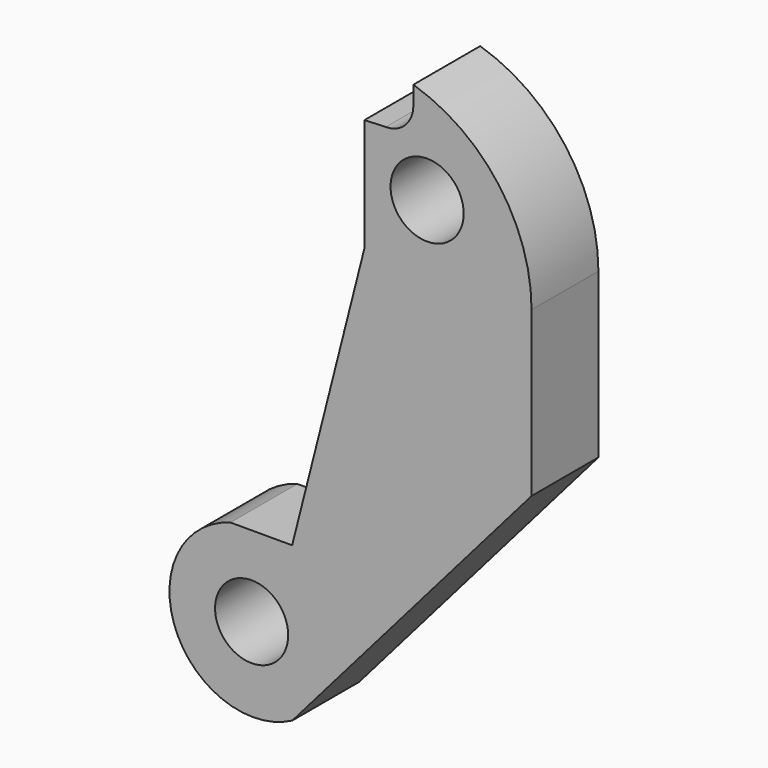
from build123d import *

# Parameters (mm, degrees)
CYLINDER056_R     = 1.75
CYLINDER056_DEPTH = 15
CYLINDER049_R     = 1.75
CYLINDER049_DEPTH = 15
EXTRUDE002_DEPTH  = 4


with BuildPart() as m3holds024:
    # Cylinder056 → Cylinder056 (new body)
    with BuildSketch(Plane(origin=(72, 0.25, 82), x_dir=(1, 0, 0), z_dir=(0, -1, 0))):
        Circle(CYLINDER056_R)
    extrude(amount=CYLINDER056_DEPTH)


with BuildPart() as fusion062:
    # Cylinder049 → Cylinder049 (new body)
    with BuildSketch(Plane(origin=(63.6, 0.25, 61.5), x_dir=(1, 0, 0), z_dir=(0, -1, 0))):
        Circle(CYLINDER049_R)
    extrude(amount=CYLINDER049_DEPTH)

    # Fusion062: union m3Holds024
    add(m3holds024.part)


with BuildPart() as c4holdtopright:
    # Sketch004 → Extrude002 (new body)
    with BuildSketch(Plane.XZ):
        with BuildLine():
            Line((62.586749, 65.351379), (65.538803, 65.351379))
            Line((65.538803, 65.351379), (69.00193, 79))
            Line((69.00193, 79), (69.00193, 84.396622))
            Line((70.021072, 84.435017), (69.00193, 84.396622))
            ThreePointArc((70.021072, 84.435017), (70.953835, 84.821381), (71.340198, 85.754143))
            Line((71.340198, 85.754143), (71.340198, 86.648129))
            ThreePointArc((76.999515, 79), (75.430844, 83.757146), (71.340198, 86.648129))
            Line((76.999515, 79), (76.999515, 71.156998))
            Line((76.999515, 71.156998), (65.547958, 57.96986))
            ThreePointArc((62.586749, 65.351379), (59.954558, 60.010709), (65.547958, 57.96986))
        make_face()
    extrude(amount=EXTRUDE002_DEPTH)


with BuildPart() as c4holdtopright_1:
    # Extrude002 placement: moved
    add(c4holdtopright.part.moved(Location((0, -8, 0))))

    # Cut012: cut Fusion062
    add(fusion062.part, mode=Mode.SUBTRACT)


solid = c4holdtopright_1.part
